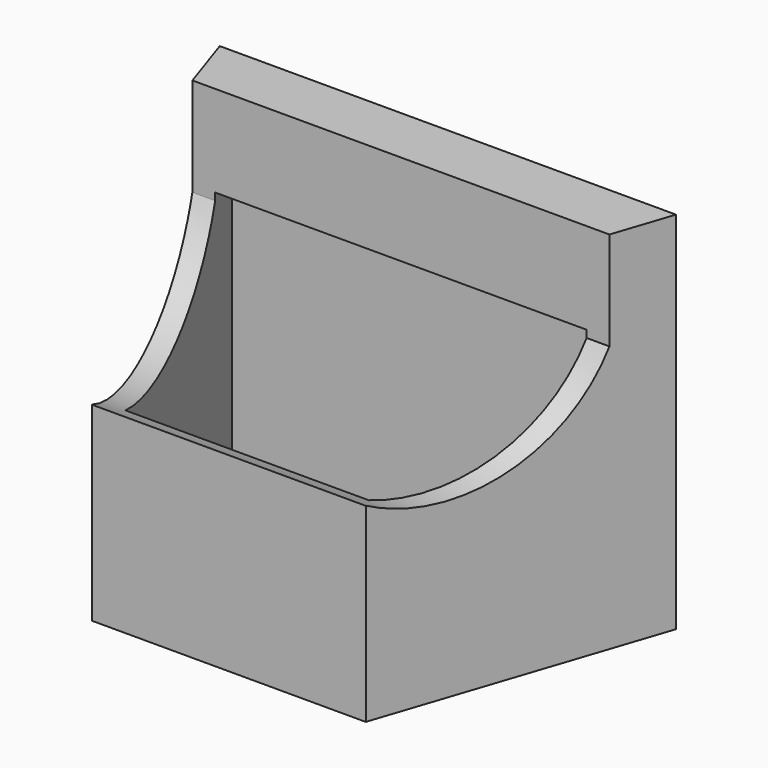
from build123d import *

# Parameters (mm, degrees)
F1_DEPTH = 101.6
F4_DEPTH = 127
F6_DEPTH = 76.2


with BuildPart() as f1:
    # F0 (on Top) → F1 (new body)
    with BuildSketch(Plane.XY):
        Polygon((-63.5, 14.05588), (-38.1, -62.14412), (38.1, -62.14412), (63.5, 14.05588), align=None)
    extrude(amount=F1_DEPTH)

    # F3 (on offset) → F4 (cut)
    with BuildSketch(Plane.YZ.offset(63.5)):
        with BuildLine():
            Line((-2.288038, 110.407464), (-33.979441, 110.407464))
            ThreePointArc((-33.979441, 110.407464), (-46.417855, 109.443983), (-57.741659, 104.208156))
            Line((-57.741659, 104.208156), (-68.357266, 104.208156))
            Line((-68.357266, 104.208156), (-68.357266, 91.704749))
            Line((-68.357266, 91.704749), (-68.357266, 52.956361))
            Line((-68.357266, 52.956361), (-62.043723, 52.956361))
            ThreePointArc((-62.043723, 52.956361), (-27.599395, 50.705769), (-2.288038, 74.175155))
            Line((-2.288038, 74.175155), (-2.288038, 110.407464))
        make_face()
    extrude(amount=-F4_DEPTH, mode=Mode.SUBTRACT)

    # F5 (on Top) → F6 (cut)
    with BuildSketch(Plane.XY):
        Polygon((55.033333, 7.70588), (-55.033333, 7.70588), (-33.866667, -55.79412), (33.866667, -55.79412), align=None)
    extrude(amount=F6_DEPTH, mode=Mode.SUBTRACT)


solid = f1.part
